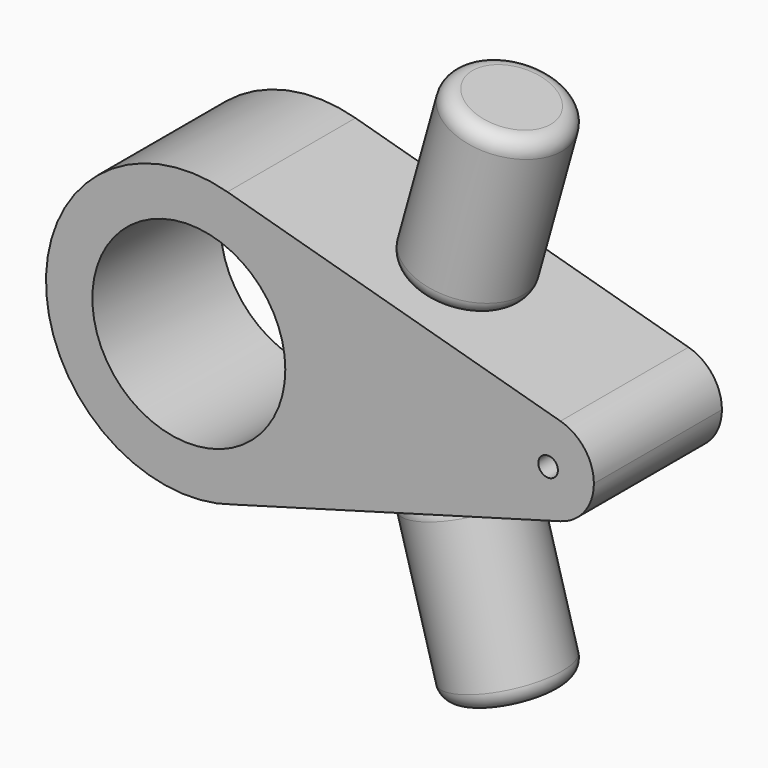
from build123d import *

# Parameters (mm, degrees)
F0_R     = 30.144048
F0_R_2   = 3.059417
F1_DEPTH = 50
F2_R     = 17.776425
F3_DEPTH = 55.372
F4_R     = 5.08


with BuildPart() as f1:
    # F0 (on Front) → F1 (new body)
    with BuildSketch(Plane.XZ):
        with BuildLine():
            ThreePointArc((13.944059, -42.39634), (36.153959, -26.168257), (44.630555, 0))
            ThreePointArc((44.630555, 0), (35.567306, 26.960214), (12.058559, 42.97066))
            ThreePointArc((12.058559, 42.97066), (-44.619673, -0.985514), (13.944059, -42.39634))
        make_face()
        Circle(F0_R, mode=Mode.SUBTRACT)
        with BuildLine():
            ThreePointArc((12.058559, 42.97066), (35.567306, 26.960214), (44.630555, 0))
            ThreePointArc((44.630555, 0), (36.153959, -26.168257), (13.944059, -42.39634))
            Line((13.944059, -42.39634), (116.103264, -13.773313))
            ThreePointArc((116.103264, -13.773313), (97.940537, 0.002934), (116.108913, 13.771729))
            Line((116.108913, 13.771729), (12.058559, 42.97066))
        make_face()
        with BuildLine():
            ThreePointArc((126.54796, 0), (123.643266, 8.640518), (116.108913, 13.771729))
            ThreePointArc((116.108913, 13.771729), (97.940537, 0.002934), (116.103264, -13.773313))
            ThreePointArc((116.103264, -13.773313), (123.641494, -8.642856), (126.54796, 0))
        make_face()
        with Locations((112.244248, 0)):
            Circle(F0_R_2, mode=Mode.SUBTRACT)
    extrude(amount=F1_DEPTH)


with BuildPart() as f3:
    # F2 (on face) → F3 (new body)
    with BuildSketch(Plane(origin=(12.058559, 0, 42.97066), x_dir=(0.962808, 0, -0.270186), z_dir=(0.270186, 0, 0.962808))):
        with Locations((55.913217, -25)):
            Circle(F2_R)
    extrude(amount=F3_DEPTH)

    # F4
    f4_edges = [f3.edges().sort_by_distance(p)[0] for p in [
        (63.73772, -25, 85.979236),
        (48.776971, -25, 32.666626),
    ]]
    fillet(f4_edges, radius=F4_R)


with BuildPart() as f5_1:
    # F5: instance of F3
    add(f3.part.mirror(Plane.XY))


solid = Compound([f1.part, f3.part, f5_1.part])
